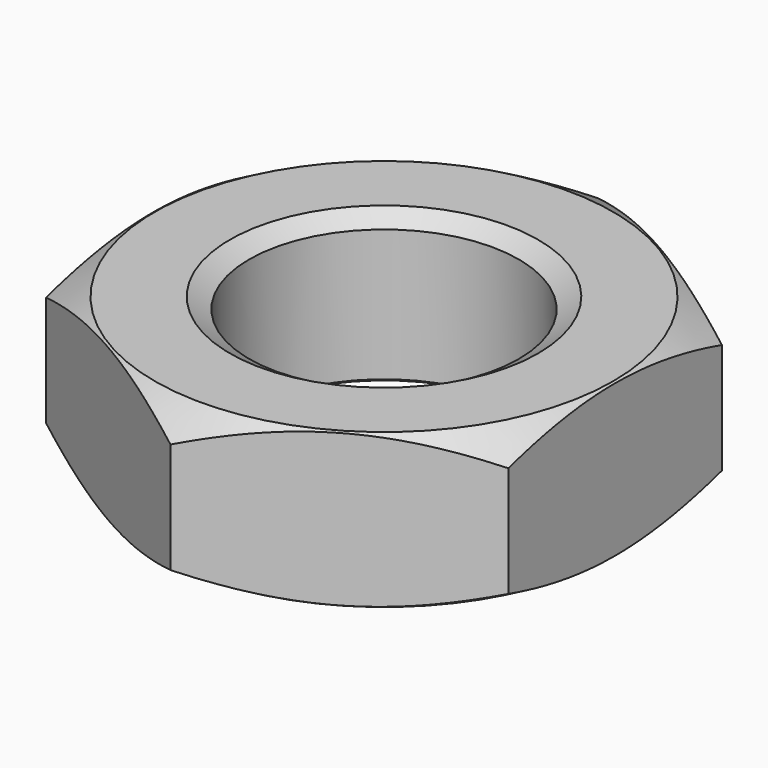
from build123d import *

# Parameters (mm, degrees)
SKETCH001_R  = 14.5
POCKET_DEPTH = 8


with BuildPart() as part:
    # Sketch → Revolution (revolve)
    with BuildSketch(Plane.XZ):
        Polygon((8, 0), (7, 0.57735), (7, 7.42265), (8, 8), (11.9, 8), (14.5, 6.498889), (14.5, 1.501111), (11.9, 0), align=None)
    revolve(axis=Axis((0, 0, 0), (0, 0, 1)))

    # Sketch001 → Pocket (cut)
    with BuildSketch(Plane(origin=(0, 0, 8), x_dir=(-1, 0, 0), z_dir=(0, 0, 1))):
        Circle(SKETCH001_R)
        Polygon((-12, 6.928203), (-12, -6.928203), (0, -13.856406), (12, -6.928203), (12, 6.928203), (0, 13.856406), align=None, mode=Mode.SUBTRACT)
    extrude(amount=-POCKET_DEPTH, mode=Mode.SUBTRACT)


solid = part.part
